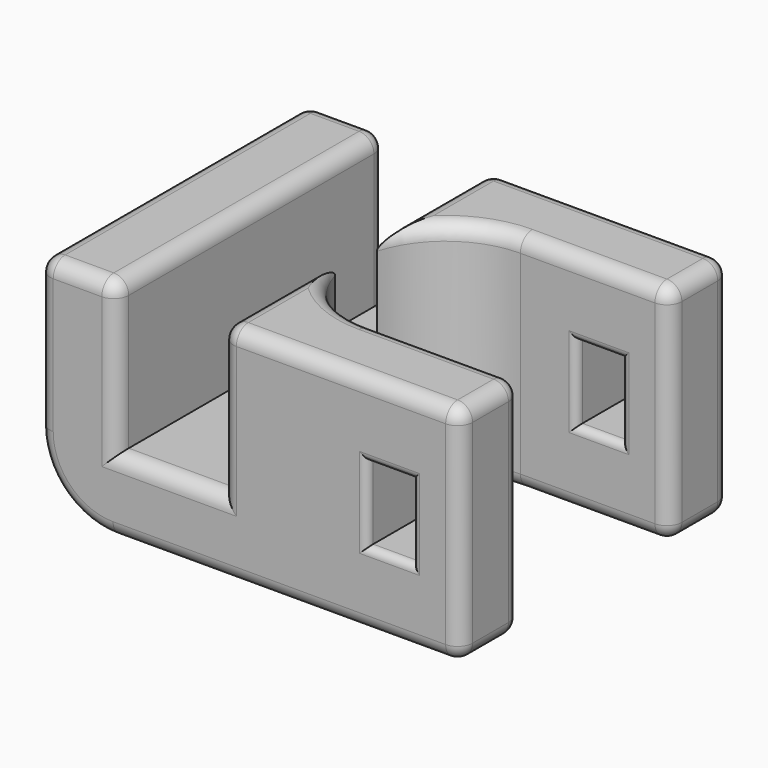
from build123d import *

# Parameters (mm, degrees)
PAD_DEPTH       = 15
SKETCH001_W     = 7
SKETCH001_H     = 22.5
POCKET_DEPTH    = 10
SKETCH003_W     = 3
SKETCH003_H     = 5
POCKET001_DEPTH = 22.501
FILLET_R        = 5
FILLET001_R     = 1
FILLET002_R     = 0.5


with BuildPart() as part:
    # Sketch → Pad (new body)
    with BuildSketch(Plane.XY):
        with BuildLine():
            ThreePointArc((18.25, 17.5), (12, 11.25), (18.25, 5))
            Line((28.25, 5), (18.25, 5))
            Line((28.25, 0), (28.25, 5))
            Line((0, 0), (28.25, 0))
            Line((0, 22.5), (0, 0))
            Line((28.25, 22.5), (0, 22.5))
            Line((28.25, 17.5), (28.25, 22.5))
            Line((18.25, 17.5), (28.25, 17.5))
        make_face()
    extrude(amount=PAD_DEPTH)

    # Sketch001 (on Face10 of Pad) → Pocket (cut)
    with BuildSketch(Plane.XY.offset(15)):
        with Locations((8.75, 11.25)):
            Rectangle(SKETCH001_W, SKETCH001_H)
    extrude(amount=-POCKET_DEPTH, mode=Mode.SUBTRACT)

    # Sketch003 → Pocket001 (cut, through all)
    with BuildSketch(Plane.XZ):
        with Locations((23.5, 7.5)):
            Rectangle(SKETCH003_W, SKETCH003_H)
    extrude(amount=-POCKET001_DEPTH, mode=Mode.SUBTRACT)

    # Fillet
    fillet_edges = [part.edges().sort_by_distance(p)[0] for p in [
        (0, 11.25, 0),
    ]]
    fillet(fillet_edges, radius=FILLET_R)

    # Fillet001
    fillet001_edges = [part.edges().sort_by_distance(p)[0] for p in [
        (0, 11.25, 15),
        (5.25, 11.25, 15),
        (2.625, 0, 15),
        (0, 0, 10),
        (0, 22.5, 10),
        (2.625, 22.5, 15),
        (20.25, 22.5, 15),
        (28.25, 20, 15),
        (23.25, 17.5, 15),
        (14.5, 16.25, 15),
        (12.25, 17.75, 15),
        (12.25, 4.75, 15),
        (23.25, 5, 15),
        (14.5, 6.25, 15),
        (28.25, 2.5, 15),
        (20.25, 0, 15),
        (28.25, 0, 7.5),
        (16.625, 0, 0),
        (1.464466, 0, 1.464466),
        (5.25, 0, 10),
        (8.75, 0, 5),
        (12.25, 0, 10),
        (12.25, 22.5, 10),
        (5.25, 22.5, 10),
        (8.75, 22.5, 5),
        (16.625, 22.5, 0),
        (1.464466, 22.5, 1.464466),
        (28.25, 5, 7.5),
        (28.25, 2.5, 0),
        (23.25, 5, 0),
        (12, 11.25, 0),
        (28.25, 17.5, 7.5),
        (28.25, 20, 0),
        (28.25, 22.5, 7.5),
        (23.25, 17.5, 0),
    ]]
    fillet(fillet001_edges, radius=FILLET001_R)

    # Fillet002
    fillet002_edges = [part.edges().sort_by_distance(p)[0] for p in [
        (25, 0, 7.5),
        (23.5, 0, 5),
        (22, 0, 7.5),
        (23.5, 0, 10),
        (23.5, 17.5, 10),
        (25, 17.5, 7.5),
        (23.5, 17.5, 5),
        (22, 17.5, 7.5),
        (25, 5, 7.5),
        (23.5, 5, 10),
        (22, 5, 7.5),
        (23.5, 5, 5),
        (23.5, 22.5, 10),
        (22, 22.5, 7.5),
        (23.5, 22.5, 5),
        (25, 22.5, 7.5),
    ]]
    fillet(fillet002_edges, radius=FILLET002_R)


solid = part.part
